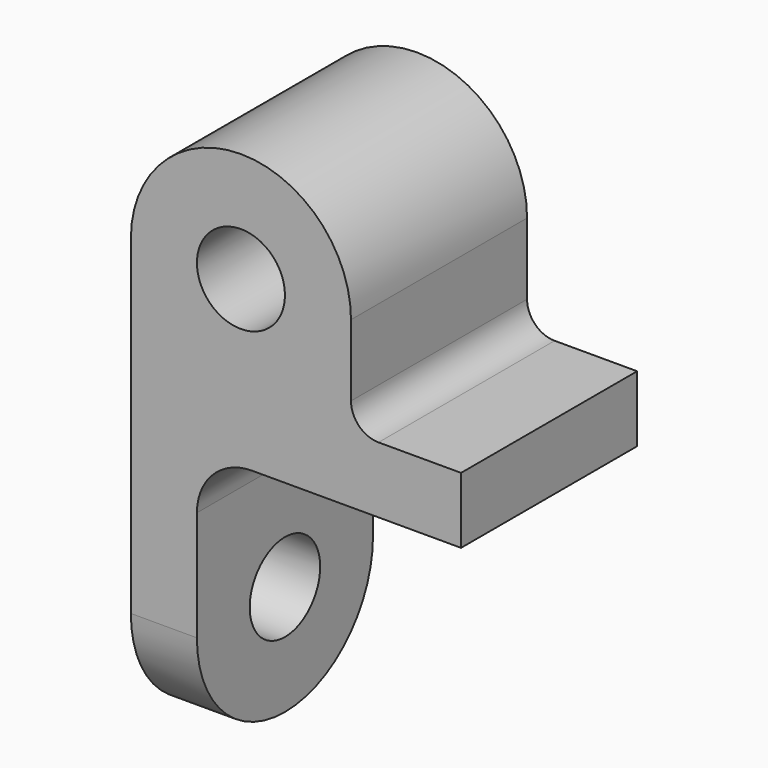
from build123d import *

# Parameters (mm, degrees)
PAD_DEPTH            = 20
PAD001_DEPTH         = 20
PAD002_DEPTH         = 12
SKETCH004_R          = 8
POCKET001_DEPTH      = 20.001
POCKET001_DEPTH_BACK = -20.001
SKETCH005_R          = 8
POCKET002_DEPTH      = 0.001
POCKET002_DEPTH_BACK = -60.001


with BuildPart() as part:
    # Sketch → Pad (new body, symmetric)
    with BuildSketch(Plane.XZ):
        with BuildLine():
            Line((0, 60), (0, 0))
            Line((0, 0), (12, 0))
            Line((12, 0), (12, 20))
            ThreePointArc((22, 30), (14.928932, 27.071068), (12, 20))
            Line((60, 30), (22, 30))
            Line((60, 30), (60, 42))
            Line((45, 42), (60, 42))
            ThreePointArc((40, 47), (41.464466, 43.464466), (45, 42))
            Line((40, 60), (40, 47))
            Line((40, 60), (0, 60))
        make_face()
    extrude(amount=PAD_DEPTH, both=True)

    # Sketch001 → Pad001 (join, symmetric)
    with BuildSketch(Plane.XZ):
        with BuildLine():
            ThreePointArc((40, 60), (20, 80), (0, 60))
            Line((40, 60), (0, 60))
        make_face()
    extrude(amount=PAD001_DEPTH, both=True)

    # Sketch002 → Pad002 (join)
    with BuildSketch(Plane.YZ):
        with BuildLine():
            ThreePointArc((-20, 0), (0, -20), (20, 0))
            Line((20, 0), (-20, 0))
        make_face()
    extrude(amount=PAD002_DEPTH)

    # Sketch004 → Pocket001 (cut, two sides)
    with BuildSketch(Plane.XZ) as pocket001_sk:
        with Locations((20, 60)):
            Circle(SKETCH004_R)
    extrude(amount=-POCKET001_DEPTH, mode=Mode.SUBTRACT)
    extrude(pocket001_sk.sketch, amount=-POCKET001_DEPTH_BACK, mode=Mode.SUBTRACT)

    # Sketch005 → Pocket002 (cut, two sides)
    with BuildSketch(Plane.YZ) as pocket002_sk:
        Circle(SKETCH005_R)
    extrude(amount=-POCKET002_DEPTH, mode=Mode.SUBTRACT)
    extrude(pocket002_sk.sketch, amount=-POCKET002_DEPTH_BACK, mode=Mode.SUBTRACT)


solid = part.part
